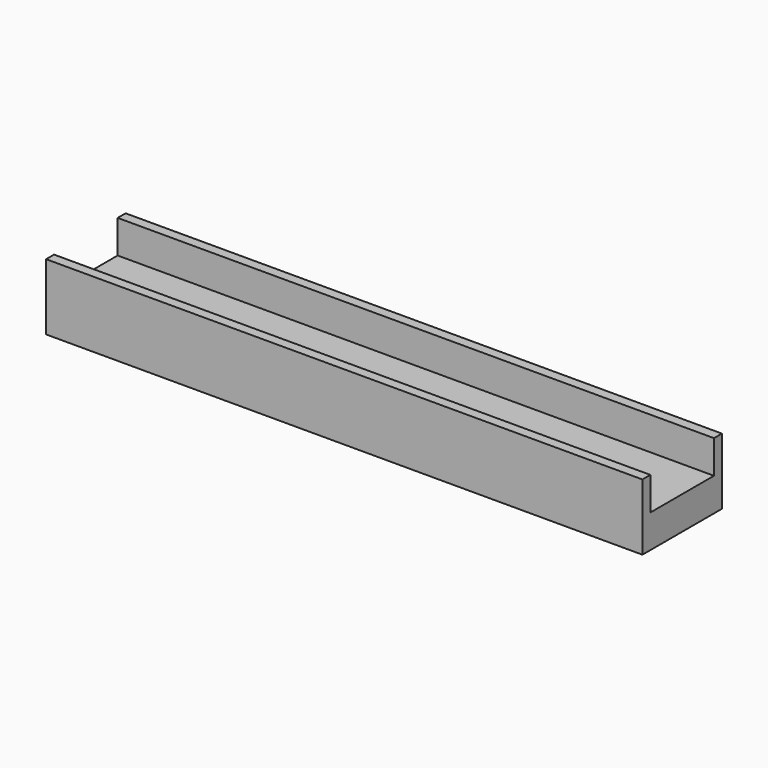
from build123d import *

# Parameters (mm, degrees)
F0_W     = 90
F0_H     = 15
F1_DEPTH = 5
F2_W     = 90
F2_H     = 12
F3_DEPTH = 5


with BuildPart() as f1:
    # F0 (on Top) → F1 (new body, symmetric)
    with BuildSketch(Plane.XY):
        Rectangle(F0_W, F0_H)
    extrude(amount=F1_DEPTH, both=True)

    # F2 (on face) → F3 (cut)
    with BuildSketch(Plane.XY.offset(5)):
        Rectangle(F2_W, F2_H)
    extrude(amount=-F3_DEPTH, mode=Mode.SUBTRACT)


solid = f1.part
